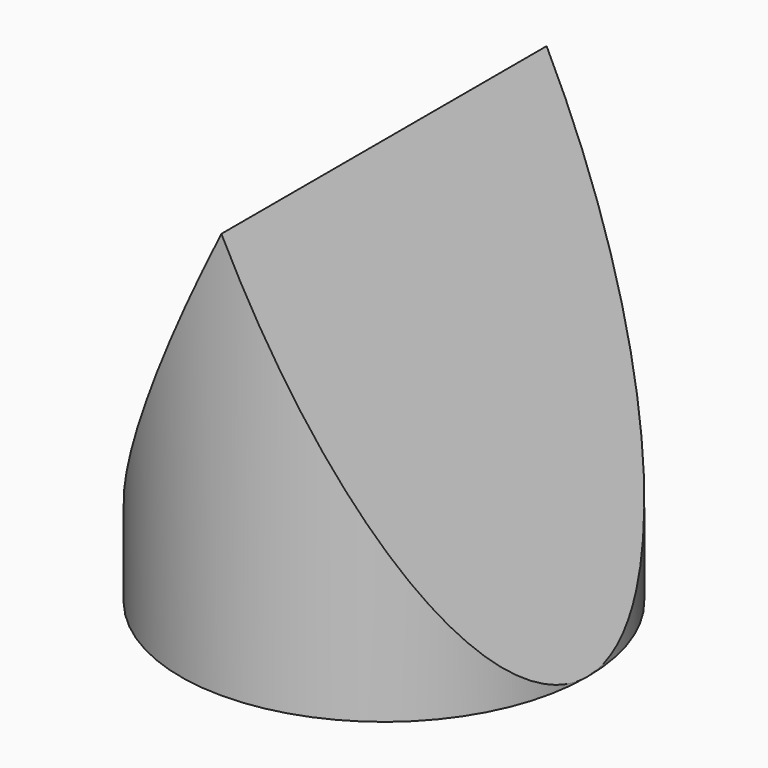
from build123d import *

# Parameters (mm, degrees)
F0_R          = 500
F3_DEPTH      = 1000
F5_DEPTH      = 500.001
F5_DEPTH_BACK = 500.001


with BuildPart() as f3:
    # F0 (on Top) → F3 (new body, through all)
    with BuildSketch(Plane.XY):
        Circle(F0_R)
    extrude(amount=F3_DEPTH)


with BuildPart() as f5:
    # F4 (on Front) → F5 (new body, two sides)
    with BuildSketch(Plane.XZ) as f5_sk:
        Polygon((0, 1000), (500, 0), (500, 1000), align=None)
    extrude(amount=-F5_DEPTH)
    extrude(f5_sk.sketch, amount=F5_DEPTH_BACK)


with BuildPart() as f6_1:
    # F6: instance of F5
    add(f5.part.mirror(Plane.YZ))


with BuildPart() as f3_1:
    add(f3.part)

    # F7: cut F5, F6_1
    add(f5.part, mode=Mode.SUBTRACT)
    add(f6_1.part, mode=Mode.SUBTRACT)


solid = f3_1.part
